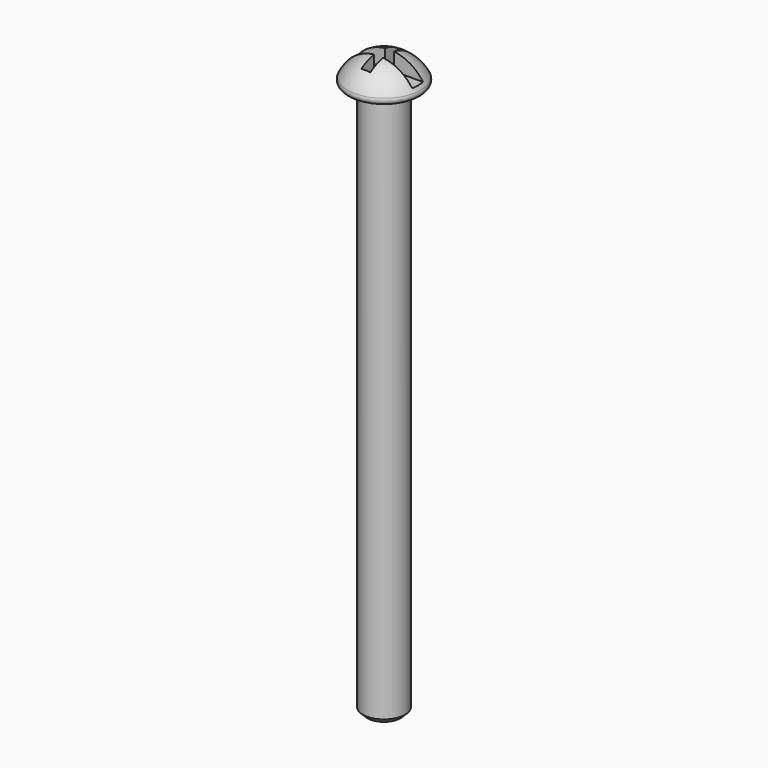
from build123d import *

# Parameters (mm, degrees)
F2_R     = 0.508
F4_W     = 8.763
F4_H     = 1.524
F5_DEPTH = 2.032
F6_W     = 1.016
F6_H     = 5.08
F7_DEPTH = 2.032
F8_R     = 2.3495
F9_DEPTH = 61.722
F10_SIZE = 0.508


with BuildPart() as f1:
    # F0 (on Front) → F1 (revolve)
    with BuildSketch(Plane.XZ):
        with BuildLine():
            ThreePointArc((4.3815, 0), (2.705465, 2.297807), (0, 3.175))
            Line((0, 3.175), (0, 0))
            Line((0, 0), (4.3815, 0))
        make_face()
    revolve(axis=Axis((0, 0, 1.5875), (0, 0, -1)))

    # F2
    f2_edges = [f1.edges().sort_by_distance(p)[0] for p in [
        (-4.3815, 0, 0),
    ]]
    fillet(f2_edges, radius=F2_R)

    # F4 (on plane+point) → F5 (cut)
    with BuildSketch(Plane.XY.offset(3.175)):
        Rectangle(F4_W, F4_H)
    extrude(amount=-F5_DEPTH, mode=Mode.SUBTRACT)

    # F6 (on plane+point) → F7 (cut, through all)
    with BuildSketch(Plane.XY.offset(3.175)):
        Rectangle(F6_W, F6_H)
    extrude(amount=-F7_DEPTH, mode=Mode.SUBTRACT)

    # F8 (on face) → F9 (join)
    with BuildSketch(Plane(origin=(0, 0, 0), x_dir=(1, 0, 0), z_dir=(0, 0, -1))):
        Circle(F8_R)
    extrude(amount=F9_DEPTH)

    # F10
    f10_edges = [f1.edges().sort_by_distance(p)[0] for p in [
        (-2.3495, 0, -61.722),
    ]]
    chamfer(f10_edges, length=F10_SIZE)


solid = f1.part
